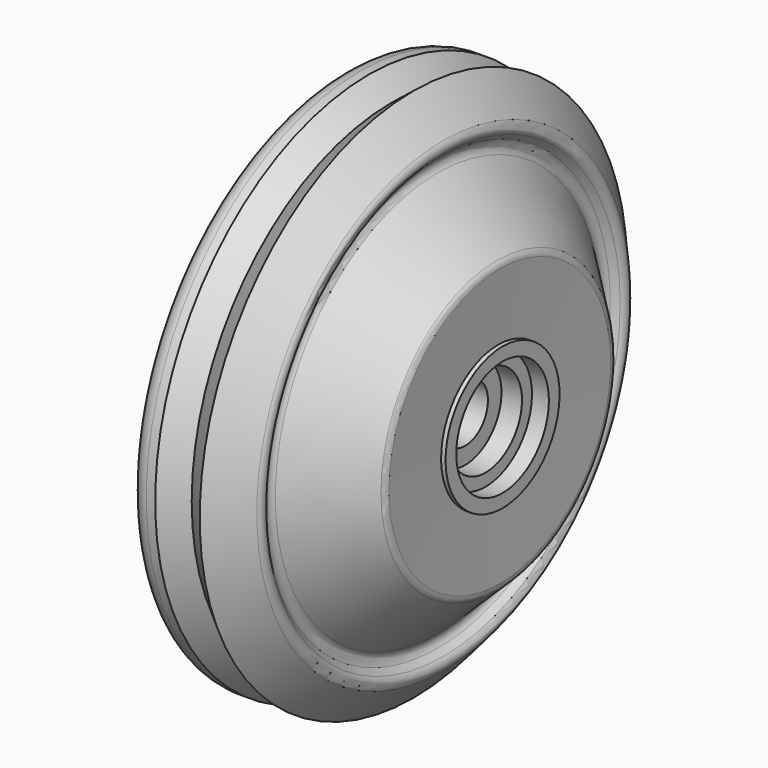
from build123d import *


with BuildPart() as f1:
    # F0 (on Front) → F1 (revolve)
    with BuildSketch(Plane.XZ):
        with BuildLine():
            Line((0, 0), (7.8, 0))
            Line((7.8, 0), (7.8, 3.2))
            Line((7.8, 3.2), (13.8, 3.2))
            Line((13.8, 3.2), (13.8, 5.1))
            Line((13.8, 5.1), (16.1, 5.1))
            Line((16.1, 5.1), (16.1, 6.5))
            Line((16.1, 6.5), (18, 6.5))
            Line((18, 6.5), (18, 8))
            Line((18, 8), (17.499844, 8))
            Line((17.499844, 8), (17.689076, 15.563382))
            ThreePointArc((17.689076, 15.563382), (17.615521, 15.965593), (17.387131, 16.304742))
            Line((17.387131, 16.304742), (10.725836, 22.793016))
            ThreePointArc((10.725836, 22.793016), (10.4236, 23.502787), (10.716472, 24.216472))
            Line((10.716472, 24.216472), (11.333265, 24.833265))
            ThreePointArc((11.333265, 24.833265), (11.625727, 25.510999), (11.373568, 26.204736))
            Line((11.373568, 26.204736), (8, 30))
            Line((8, 30), (5.5, 28))
            Line((5.5, 28), (3, 30))
            Line((3, 30), (2, 30))
            ThreePointArc((2, 30), (0.585786, 29.414214), (0, 28))
            Line((0, 28), (0, 27.64093))
            ThreePointArc((0, 27.64093), (0.095409, 27.030575), (0.372533, 26.478454))
            Line((0.372533, 26.478454), (4.806254, 20.271244))
            ThreePointArc((4.806254, 20.271244), (5.019507, 20.019507), (5.271244, 19.806254))
            Line((5.271244, 19.806254), (11.162476, 15.598231))
            ThreePointArc((11.162476, 15.598231), (11.778335, 14.885927), (12, 13.970764))
            Line((12, 13.970764), (12, 9.561553))
            ThreePointArc((12, 9.561553), (11.576411, 8.330728), (10.485071, 7.621268))
            Line((10.485071, 7.621268), (3.787322, 5.94683))
            ThreePointArc((3.787322, 5.94683), (1.058973, 4.173179), (0, 1.096118))
            Line((0, 1.096118), (0, 0))
        make_face()
    revolve(axis=Axis((3.9, 0, 0), (1, 0, 0)))


solid = f1.part
